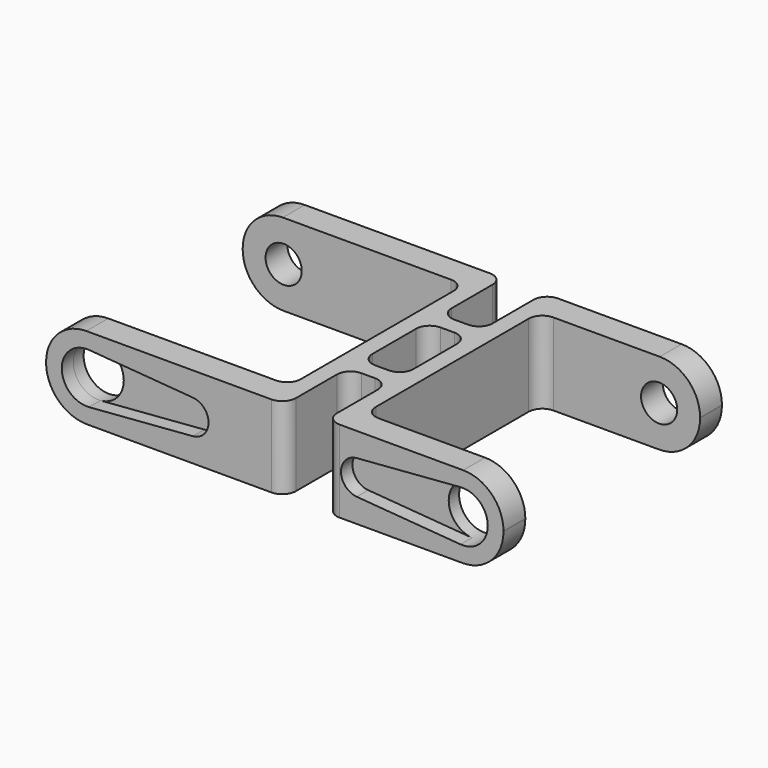
from build123d import *

# Parameters (mm, degrees)
PAD_DEPTH       = 12
SKETCH001_R     = 3.7
POCKET_DEPTH    = 5
POCKET001_DEPTH = 2.1
SKETCH003_R     = 2.65
POCKET002_DEPTH = 5
FILLET_R        = 6
FILLET001_R     = 6
FILLET002_R     = 6
FILLET003_R     = 6
FILLET004_R     = 5.9
FILLET005_R     = 5.9
FILLET006_R     = 5.9
FILLET007_R     = 5.9


with BuildPart() as part:
    # Sketch → Pad (new body)
    with BuildSketch(Plane.XY):
        with BuildLine():
            Line((-3, 10.5), (-3, 18))
            ThreePointArc((-3, 18), (-3.585786, 19.414214), (-5, 20))
            Line((-5, 20), (-38, 20))
            Line((-38, 20), (-38, 16))
            Line((-38, 16), (-7.5, 16))
            ThreePointArc((-5.5, 14), (-6.085786, 15.414214), (-7.5, 16))
            Line((-5.5, 14), (-5.5, -14))
            ThreePointArc((-7.5, -16), (-6.085786, -15.414214), (-5.5, -14))
            Line((-7.5, -16), (-38, -16))
            Line((-38, -16), (-38, -20))
            Line((-38, -20), (-5, -20))
            ThreePointArc((-5, -20), (-3.585786, -19.414214), (-3, -18))
            Line((-3, -18), (-3, -10.5))
            ThreePointArc((-1, -8.5), (-2.414214, -9.085786), (-3, -10.5))
            Line((-1, -8.5), (1, -8.5))
            ThreePointArc((3, -10.5), (2.414214, -9.085786), (1, -8.5))
            Line((3, -10.5), (3, -18))
            ThreePointArc((3, -18), (3.585786, -19.414214), (5, -20))
            Line((5, -20), (29, -20))
            Line((29, -20), (29, -16))
            Line((29, -16), (7.5, -16))
            ThreePointArc((5.5, -14), (6.085786, -15.414214), (7.5, -16))
            Line((5.5, -14), (5.5, 14))
            ThreePointArc((7.5, 16), (6.085786, 15.414214), (5.5, 14))
            Line((7.5, 16), (29, 16))
            Line((29, 16), (29, 20))
            Line((29, 20), (5, 20))
            ThreePointArc((5, 20), (3.585786, 19.414214), (3, 18))
            Line((3, 18), (3, 10.5))
            ThreePointArc((1, 8.5), (2.414214, 9.085786), (3, 10.5))
            Line((1, 8.5), (-1, 8.5))
            ThreePointArc((-3, 10.5), (-2.414214, 9.085786), (-1, 8.5))
        make_face()
        with BuildLine():
            Line((3, -4), (3, 4))
            ThreePointArc((3, 4), (2.414214, 5.414214), (1, 6))
            Line((1, 6), (-1, 6))
            ThreePointArc((-1, 6), (-2.414214, 5.414214), (-3, 4))
            Line((-3, 4), (-3, -4))
            ThreePointArc((-3, -4), (-2.414214, -5.414214), (-1, -6))
            Line((-1, -6), (1, -6))
            ThreePointArc((1, -6), (2.414214, -5.414214), (3, -4))
        make_face(mode=Mode.SUBTRACT)
    extrude(amount=PAD_DEPTH)

    # Sketch001 (on Face11 of Pad) → Pocket (cut)
    with BuildSketch(Plane.XZ.offset(20)):
        with Locations((-32, 6)):
            Circle(SKETCH001_R)
        with Locations((23, 6)):
            Circle(SKETCH001_R)
    extrude(amount=-POCKET_DEPTH, mode=Mode.SUBTRACT)

    # Sketch002 (on Face23 of Pocket) → Pocket001 (cut)
    with BuildSketch(Plane.XZ.offset(20)):
        with BuildLine():
            ThreePointArc((-31.709804, 9.688602), (-35.7, 6), (-31.709804, 2.311398))
            Line((-31.709804, 2.311398), (-16.503922, 3.507701))
            ThreePointArc((-16.503922, 3.507701), (-14.2, 6), (-16.503922, 8.492299))
            Line((-16.503922, 8.492299), (-31.709804, 9.688602))
        make_face()
        with BuildLine():
            ThreePointArc((22.709804, 2.311398), (26.7, 6), (22.709804, 9.688602))
            Line((22.709804, 9.688602), (7.503922, 8.492299))
            ThreePointArc((7.503922, 8.492299), (5.2, 6), (7.503922, 3.507701))
            Line((7.503922, 3.507701), (22.709804, 2.311398))
        make_face()
    extrude(amount=-POCKET001_DEPTH, mode=Mode.SUBTRACT)

    # Sketch003 (on Face31 of Pocket001) → Pocket002 (cut)
    with BuildSketch(Plane(origin=(0, 20, 0), x_dir=(-1, 0, 0), z_dir=(0, 1, 0))):
        with Locations((-23, 6)):
            Circle(SKETCH003_R)
        with Locations((32, 6)):
            Circle(SKETCH003_R)
    extrude(amount=-POCKET002_DEPTH, mode=Mode.SUBTRACT)

    # Fillet
    fillet_edges = [part.edges().sort_by_distance(p)[0] for p in [
        (29, 18, 0),
    ]]
    fillet(fillet_edges, radius=FILLET_R)

    # Fillet001
    fillet001_edges = [part.edges().sort_by_distance(p)[0] for p in [
        (29, -18, 0),
    ]]
    fillet(fillet001_edges, radius=FILLET001_R)

    # Fillet002
    fillet002_edges = [part.edges().sort_by_distance(p)[0] for p in [
        (-38, -18, 0),
    ]]
    fillet(fillet002_edges, radius=FILLET002_R)

    # Fillet003
    fillet003_edges = [part.edges().sort_by_distance(p)[0] for p in [
        (-38, 18, 0),
    ]]
    fillet(fillet003_edges, radius=FILLET003_R)

    # Fillet004
    fillet004_edges = [part.edges().sort_by_distance(p)[0] for p in [
        (29, -18, 12),
    ]]
    fillet(fillet004_edges, radius=FILLET004_R)

    # Fillet005
    fillet005_edges = [part.edges().sort_by_distance(p)[0] for p in [
        (29, 18, 12),
    ]]
    fillet(fillet005_edges, radius=FILLET005_R)

    # Fillet006
    fillet006_edges = [part.edges().sort_by_distance(p)[0] for p in [
        (-38, 18, 12),
    ]]
    fillet(fillet006_edges, radius=FILLET006_R)

    # Fillet007
    fillet007_edges = [part.edges().sort_by_distance(p)[0] for p in [
        (-38, -18, 12),
    ]]
    fillet(fillet007_edges, radius=FILLET007_R)


solid = part.part
